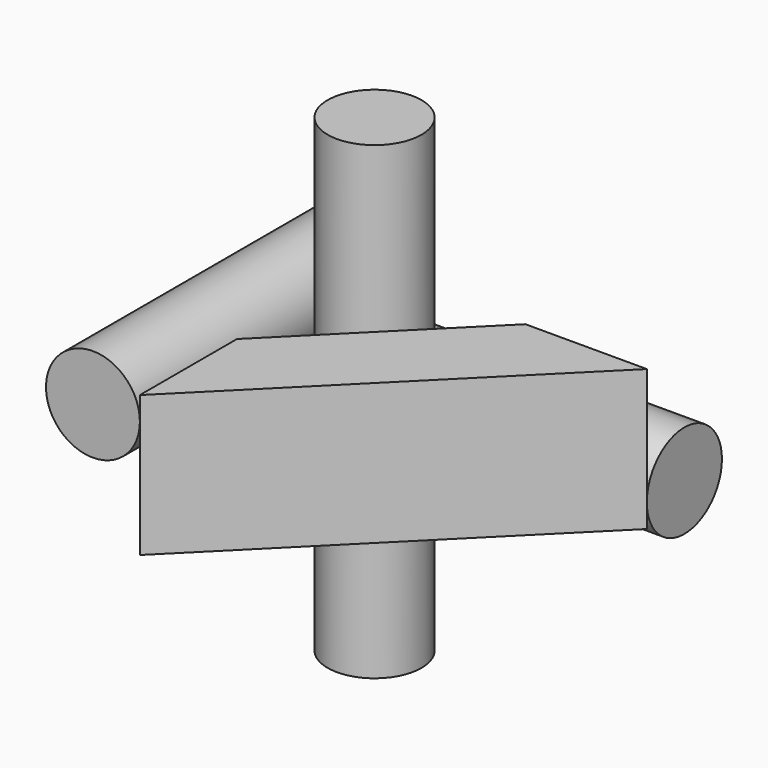
from build123d import *

# Parameters (mm, degrees)
F0_R          = 10
F1_DEPTH      = 50
F2_R          = 10
F3_DEPTH      = 50
F3_DEPTH_BACK = 25
F4_R          = 10
F5_DEPTH      = 50
F5_DEPTH_BACK = 25
F7_DEPTH      = 15


with BuildPart() as f1:
    # F0 (on Top) → F1 (new body, symmetric)
    with BuildSketch(Plane.XY):
        Circle(F0_R)
    extrude(amount=F1_DEPTH, both=True)


with BuildPart() as f3:
    # F2 (on Front) → F3 (new body, two sides)
    with BuildSketch(Plane.XZ) as f3_sk:
        with Locations((-20, 10)):
            Circle(F2_R)
    extrude(amount=F3_DEPTH)
    extrude(f3_sk.sketch, amount=-F3_DEPTH_BACK)


with BuildPart() as f5:
    # F4 (on Right) → F5 (new body, two sides)
    with BuildSketch(Plane.YZ) as f5_sk:
        with Locations((20, -10)):
            Circle(F4_R)
    extrude(amount=F5_DEPTH)
    extrude(f5_sk.sketch, amount=-F5_DEPTH_BACK)


with BuildPart() as f7:
    # F6 (on Top) → F7 (new body, symmetric)
    with BuildSketch(Plane.XY):
        Polygon((50, 10), (24.142136, 10), (-10, -24.142136), (-10, -50), align=None)
    extrude(amount=F7_DEPTH, both=True)


solid = Compound([f1.part, f3.part, f5.part, f7.part])
